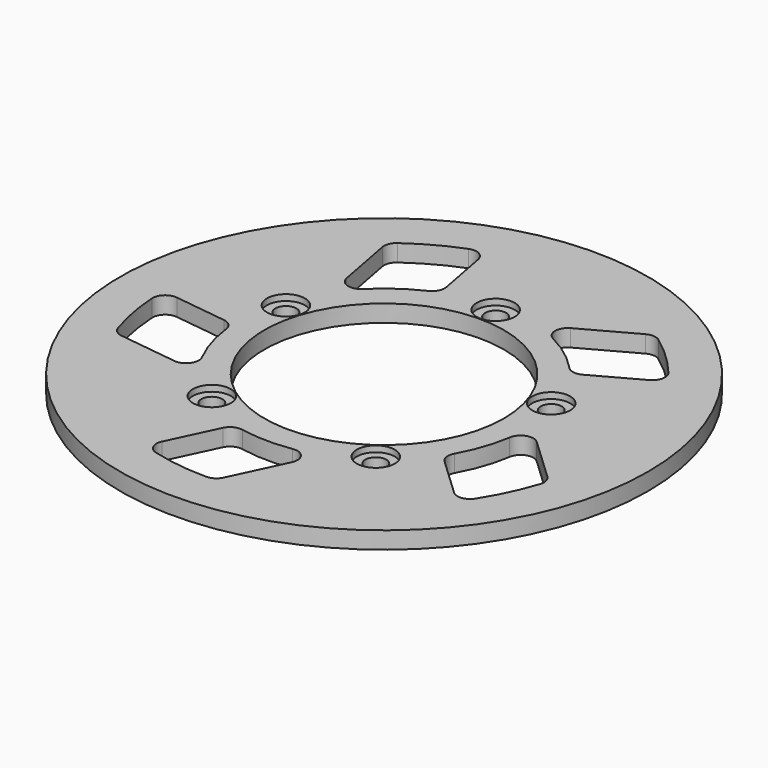
from build123d import *

# Parameters (mm, degrees)
F0_R     = 132.461
F0_R_2   = 124.1425
F0_R_3   = 9.525
F0_R_4   = 60.1091
F0_R_5   = 5.2832
F1_DEPTH = 8.5852
F2_R     = 9.525
F2_R_2   = 5.2832
F3_DEPTH = 3.048
F5_DEPTH = 8.5862


with BuildPart() as f1:
    # F0 (on Top) → F1 (new body)
    with BuildSketch(Plane.XY):
        Circle(F0_R)
        Circle(F0_R_2, mode=Mode.SUBTRACT)
        Circle(F0_R_2)
        with Locations((-41.1389134724, -56.6228567312)):
            Circle(F0_R_3, mode=Mode.SUBTRACT)
        with Locations((41.1389134724, -56.6228567312)):
            Circle(F0_R_3, mode=Mode.SUBTRACT)
        with Locations((-66.5641602585, 21.6280067312)):
            Circle(F0_R_3, mode=Mode.SUBTRACT)
        Circle(F0_R_4, mode=Mode.SUBTRACT)
        with Locations((66.5641602585, 21.6280067312)):
            Circle(F0_R_3, mode=Mode.SUBTRACT)
        with Locations((0, 69.9897)):
            Circle(F0_R_3, mode=Mode.SUBTRACT)
        with Locations((0, 69.9897)):
            Circle(F0_R_3)
        with Locations((0, 69.9897)):
            Circle(F0_R_5, mode=Mode.SUBTRACT)
        with Locations((66.5641602585, 21.6280067312)):
            Circle(F0_R_3)
        with Locations((66.5641602585, 21.6280067312)):
            Circle(F0_R_5, mode=Mode.SUBTRACT)
        with Locations((41.1389134724, -56.6228567312)):
            Circle(F0_R_3)
        with Locations((41.1389134724, -56.6228567312)):
            Circle(F0_R_5, mode=Mode.SUBTRACT)
        with Locations((-41.1389134724, -56.6228567312)):
            Circle(F0_R_3)
        with Locations((-41.1389134724, -56.6228567312)):
            Circle(F0_R_5, mode=Mode.SUBTRACT)
        with Locations((-66.5641602585, 21.6280067312)):
            Circle(F0_R_3)
        with Locations((-66.5641602585, 21.6280067312)):
            Circle(F0_R_5, mode=Mode.SUBTRACT)
    extrude(amount=F1_DEPTH)

    # F2 (on face) → F3 (cut)
    with BuildSketch(Plane.XY.offset(8.5852)):
        with Locations((-66.5641602585, 21.6280067312)):
            Circle(F2_R)
        with Locations((-66.5641602585, 21.6280067312)):
            Circle(F2_R_2, mode=Mode.SUBTRACT)
        with Locations((0, 69.9897)):
            Circle(F2_R)
        with Locations((0, 69.9897)):
            Circle(F2_R_2, mode=Mode.SUBTRACT)
        with Locations((66.5641602585, 21.6280067312)):
            Circle(F2_R)
        with Locations((66.5641602585, 21.6280067312)):
            Circle(F2_R_2, mode=Mode.SUBTRACT)
        with Locations((41.1389134724, -56.6228567312)):
            Circle(F2_R)
        with Locations((41.1389134724, -56.6228567312)):
            Circle(F2_R_2, mode=Mode.SUBTRACT)
        with Locations((-41.1389134724, -56.6228567312)):
            Circle(F2_R)
        with Locations((-41.1389134724, -56.6228567312)):
            Circle(F2_R_2, mode=Mode.SUBTRACT)
    extrude(amount=-F3_DEPTH, mode=Mode.SUBTRACT)

    # F4 (on face) → F5 (cut, through all)
    with BuildSketch(Plane.XY.offset(8.5852)):
        with BuildLine():
            ThreePointArc((-51.6774888153, 51.2893964924), (-41.8372341216, 59.5886808368), (-30.6891923649, 66.0252869346))
            ThreePointArc((-30.6891923649, 66.0252869346), (-27.7167624168, 68.8833558466), (-27.1264884478, 72.9644677469))
            Line((-27.1264884478, 72.9644677469), (-32.0624553632, 99.0450873522))
            ThreePointArc((-32.0624553632, 99.0450873522), (-35.2275731763, 103.4205413877), (-40.6159999389, 103.7775089083))
            ThreePointArc((-40.6159999389, 103.7775089083), (-53.4701008219, 97.7771912275), (-65.45782702, 90.1925922017))
            ThreePointArc((-65.45782702, 90.1925922017), (-67.6298177949, 87.3968028542), (-67.9672788915, 83.8725863441))
            Line((-67.9672788915, 83.8725863441), (-62.4237511818, 54.5817422306))
            ThreePointArc((-62.4237511818, 54.5817422306), (-58.0446252801, 49.6911222717), (-51.6774888153, 51.2893964924))
        make_face()
        with BuildLine():
            ThreePointArc((53.3102973951, 49.5900920997), (56.9470138263, 47.6463350933), (61.0107865806, 48.3460841217))
            Line((61.0107865806, 48.3460841217), (84.2896321448, 61.0998223028))
            ThreePointArc((84.2896321448, 61.0998223028), (87.4728610235, 65.4621178788), (86.1472418675, 70.6971252943))
            ThreePointArc((86.1472418675, 70.6971252943), (76.468465017, 81.0679015652), (65.550671571, 90.125136687))
            ThreePointArc((65.550671571, 90.125136687), (62.2205358328, 91.3268762457), (58.7645255422, 90.5587780272))
            Line((58.7645255422, 90.5587780272), (32.6203216513, 76.2352012649))
            ThreePointArc((32.6203216513, 76.2352012649), (29.3222899949, 70.55912036), (32.8098924804, 64.997507631))
            ThreePointArc((32.8098924804, 64.997507631), (43.743786866, 58.203489186), (53.3102973951, 49.5900920997))
        make_face()
        with BuildLine():
            ThreePointArc((63.6367681054, -35.3769245118), (62.9119525193, -39.4363013195), (64.8332282349, -43.0849445367))
            Line((64.8332282349, -43.0849445367), (84.1563129279, -61.2833204626))
            ThreePointArc((84.1563129279, -61.2833204626), (89.288774382, -62.9627275631), (93.8579234501, -60.0842825695))
            ThreePointArc((93.8579234501, -60.0842825695), (100.73021127, -47.6744726636), (105.9703700363, -34.4921944885))
            ThreePointArc((105.9703700363, -34.4921944885), (106.0842237378, -30.953689248), (104.2857530094, -27.9041835437))
            Line((104.2857530094, -27.9041835437), (82.5842186863, -7.4657967097))
            ThreePointArc((82.5842186863, -7.4657967097), (76.1667971249, -6.0831876729), (71.9551175354, -11.1187275924))
            ThreePointArc((71.9551175354, -11.1187275924), (68.8723812014, -23.616946256), (63.6367681054, -35.3769245118))
        make_face()
        with BuildLine():
            ThreePointArc((-72.2772613638, -8.7842206572), (-74.076915058, -5.074079921), (-77.7758784367, -3.2515630831))
            Line((-77.7758784367, -3.2515630831), (-104.105319322, 0.1134080996))
            ThreePointArc((-104.105319322, 0.1134080996), (-109.2446985876, -1.5447081663), (-111.2493103168, -6.5590975212))
            ThreePointArc((-111.2493103168, -6.5590975212), (-109.5148047069, -20.6382740621), (-106.0058334991, -34.3830491728))
            ThreePointArc((-106.0058334991, -34.3830491728), (-104.018061883, -37.3126815737), (-100.77061402, -38.7226689421))
            Line((-100.77061402, -38.7226689421), (-71.2003215869, -42.5018294012))
            ThreePointArc((-71.2003215869, -42.5018294012), (-65.1958412822, -39.848317857), (-64.7483370215, -33.2989173362))
            ThreePointArc((-64.7483370215, -33.2989173362), (-69.6006195485, -21.3756590841), (-72.2772613638, -8.7842206572))
        make_face()
        with BuildLine():
            ThreePointArc((-13.9806117717, -71.4542338654), (-18.0652888708, -72.0193096994), (-20.941647931, -74.9740442488))
            Line((-20.941647931, -74.9740442488), (-32.2781703875, -98.9749972921))
            ThreePointArc((-32.2781703875, -98.9749972921), (-32.2893636416, -104.3752235372), (-28.1398550618, -107.8312541119))
            ThreePointArc((-28.1398550618, -107.8312541119), (-14.2137707582, -110.532346067), (-0.0573810882, -111.4424852274))
            ThreePointArc((-0.0573810882, -111.4424852274), (3.3431201074, -110.4573082782), (5.68761436, -107.8045118855))
            Line((5.68761436, -107.8045118855), (18.4195324312, -80.8493173845))
            ThreePointArc((18.4195324312, -80.8493173845), (17.7513794425, -74.3187371018), (11.660815821, -71.8692591947))
            ThreePointArc((11.660815821, -71.8692591947), (-1.1783143974, -72.7995646827), (-13.9806117717, -71.4542338654))
        make_face()
    extrude(amount=-F5_DEPTH, mode=Mode.SUBTRACT)


solid = f1.part
